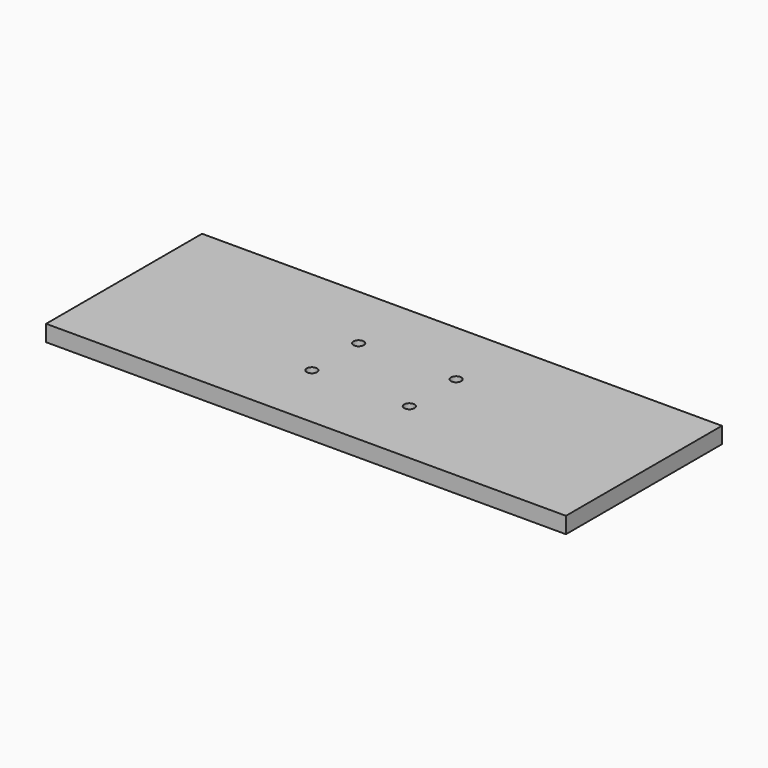
from build123d import *

# Parameters (mm, degrees)
F0_W     = 203.2
F0_H     = 76.2
F0_W_2   = 63.5
F0_H_2   = 38.1
F0_R     = 2.0193
F1_DEPTH = 6.35


with BuildPart() as f1:
    # F0 (on Top) → F1 (new body)
    with BuildSketch(Plane.XY):
        Rectangle(F0_W, F0_H)
        Rectangle(F0_W_2, F0_H_2, mode=Mode.SUBTRACT)
        Rectangle(F0_W_2, F0_H_2)
        with Locations((-19.05, -11.43)):
            Circle(F0_R, mode=Mode.SUBTRACT)
        with Locations((19.05, -11.43)):
            Circle(F0_R, mode=Mode.SUBTRACT)
        with Locations((-19.05, 11.43)):
            Circle(F0_R, mode=Mode.SUBTRACT)
        with Locations((19.05, 11.43)):
            Circle(F0_R, mode=Mode.SUBTRACT)
    extrude(amount=F1_DEPTH)


solid = f1.part
